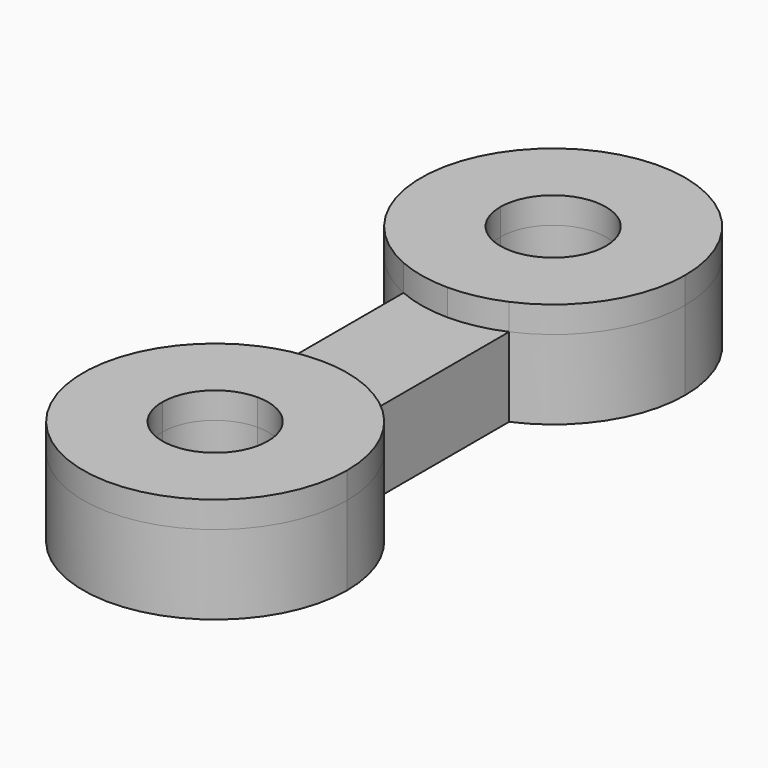
from build123d import *

# Parameters (mm, degrees)
F1_DEPTH = 2
F2_DEPTH = 1.5


with BuildPart() as f1:
    # F0 (on Top) → F1 (new body)
    with BuildSketch(Plane.XY):
        with BuildLine():
            ThreePointArc((2.5, 8), (-1.3693063938, 10.0916500663), (-1, 5.7087121525))
            Line((-1, 5.7087121525), (-1, 8))
            ThreePointArc((-1, 8), (0, 9), (1, 8))
            Line((1, 8), (1, 5.7087121525))
            ThreePointArc((1, 5.7087121525), (2.0916500663, 6.6306936062), (2.5, 8))
        make_face()
        with BuildLine():
            Line((-1, 8), (-1, 5.7087121525))
            ThreePointArc((-1, 5.7087121525), (-0.5107741092, 5.5527342177), (0, 5.5))
            Line((0, 5.5), (0, 7))
            ThreePointArc((0, 7), (-0.7071067812, 7.2928932188), (-1, 8))
        make_face()
        with BuildLine():
            ThreePointArc((0, 5.5), (0.5107741092, 5.5527342177), (1, 5.7087121525))
            Line((1, 5.7087121525), (1, 8))
            ThreePointArc((1, 8), (0.7071067812, 7.2928932188), (0, 7))
            Line((0, 7), (0, 5.5))
        make_face()
    extrude(amount=F1_DEPTH)


with BuildPart() as f1b:
    # F0 (on Top) → F1, piece 2 (new body)
    with BuildSketch(Plane.XY):
        with BuildLine():
            Line((-1, 2.2912878475), (-1, 0))
            ThreePointArc((-1, 0), (-0.7071067812, 0.7071067812), (0, 1))
            Line((0, 1), (0, 2.5))
            ThreePointArc((0, 2.5), (-0.5107741092, 2.4472657823), (-1, 2.2912878475))
        make_face()
        with BuildLine():
            ThreePointArc((1, 0), (0, -1), (-1, 0))
            Line((-1, 0), (-1, 2.2912878475))
            ThreePointArc((-1, 2.2912878475), (-1.3693063938, -2.0916500663), (2.5, 0))
            ThreePointArc((2.5, 0), (2.0916500663, 1.3693063938), (1, 2.2912878475))
            Line((1, 2.2912878475), (1, 0))
        make_face()
        with BuildLine():
            ThreePointArc((0, 1), (0.7071067812, 0.7071067812), (1, 0))
            Line((1, 0), (1, 2.2912878475))
            ThreePointArc((1, 2.2912878475), (0.5107741092, 2.4472657823), (0, 2.5))
            Line((0, 2.5), (0, 1))
        make_face()
    extrude(amount=F1_DEPTH)


with BuildPart() as f2:
    # F0 (on Top) → F2 (new body)
    with BuildSketch(Plane.XY):
        with BuildLine():
            ThreePointArc((0, 2.5), (0.5107741092, 2.4472657823), (1, 2.2912878475))
            Line((1, 2.2912878475), (1, 5.7087121525))
            ThreePointArc((1, 5.7087121525), (0.5107741092, 5.5527342177), (0, 5.5))
            Line((0, 5.5), (0, 2.5))
        make_face()
        with BuildLine():
            Line((-1, 5.7087121525), (-1, 2.2912878475))
            ThreePointArc((-1, 2.2912878475), (-0.5107741092, 2.4472657823), (0, 2.5))
            Line((0, 2.5), (0, 5.5))
            ThreePointArc((0, 5.5), (-0.5107741092, 5.5527342177), (-1, 5.7087121525))
        make_face()
        with BuildLine():
            Line((-1, 2.2912878475), (-1, 0))
            ThreePointArc((-1, 0), (-0.7071067812, 0.7071067812), (0, 1))
            Line((0, 1), (0, 2.5))
            ThreePointArc((0, 2.5), (-0.5107741092, 2.4472657823), (-1, 2.2912878475))
        make_face()
        with BuildLine():
            ThreePointArc((1, 0), (0, -1), (-1, 0))
            Line((-1, 0), (-1, 2.2912878475))
            ThreePointArc((-1, 2.2912878475), (-1.3693063938, -2.0916500663), (2.5, 0))
            ThreePointArc((2.5, 0), (2.0916500663, 1.3693063938), (1, 2.2912878475))
            Line((1, 2.2912878475), (1, 0))
        make_face()
        with BuildLine():
            ThreePointArc((0, 1), (0.7071067812, 0.7071067812), (1, 0))
            Line((1, 0), (1, 2.2912878475))
            ThreePointArc((1, 2.2912878475), (0.5107741092, 2.4472657823), (0, 2.5))
            Line((0, 2.5), (0, 1))
        make_face()
        with BuildLine():
            Line((-1, 5.7087121525), (-1, 2.2912878475))
            ThreePointArc((-1, 2.2912878475), (-0.5107741092, 2.4472657823), (0, 2.5))
            Line((0, 2.5), (0, 5.5))
            ThreePointArc((0, 5.5), (-0.5107741092, 5.5527342177), (-1, 5.7087121525))
        make_face()
        with BuildLine():
            ThreePointArc((0, 2.5), (0.5107741092, 2.4472657823), (1, 2.2912878475))
            Line((1, 2.2912878475), (1, 5.7087121525))
            ThreePointArc((1, 5.7087121525), (0.5107741092, 5.5527342177), (0, 5.5))
            Line((0, 5.5), (0, 2.5))
        make_face()
        with BuildLine():
            Line((-1, 8), (-1, 5.7087121525))
            ThreePointArc((-1, 5.7087121525), (-0.5107741092, 5.5527342177), (0, 5.5))
            Line((0, 5.5), (0, 7))
            ThreePointArc((0, 7), (-0.7071067812, 7.2928932188), (-1, 8))
        make_face()
        with BuildLine():
            ThreePointArc((2.5, 8), (-1.3693063938, 10.0916500663), (-1, 5.7087121525))
            Line((-1, 5.7087121525), (-1, 8))
            ThreePointArc((-1, 8), (0, 9), (1, 8))
            Line((1, 8), (1, 5.7087121525))
            ThreePointArc((1, 5.7087121525), (2.0916500663, 6.6306936062), (2.5, 8))
        make_face()
        with BuildLine():
            ThreePointArc((0, 5.5), (0.5107741092, 5.5527342177), (1, 5.7087121525))
            Line((1, 5.7087121525), (1, 8))
            ThreePointArc((1, 8), (0.7071067812, 7.2928932188), (0, 7))
            Line((0, 7), (0, 5.5))
        make_face()
    extrude(amount=F2_DEPTH)


solid = Compound([f1.part, f1b.part, f2.part])
